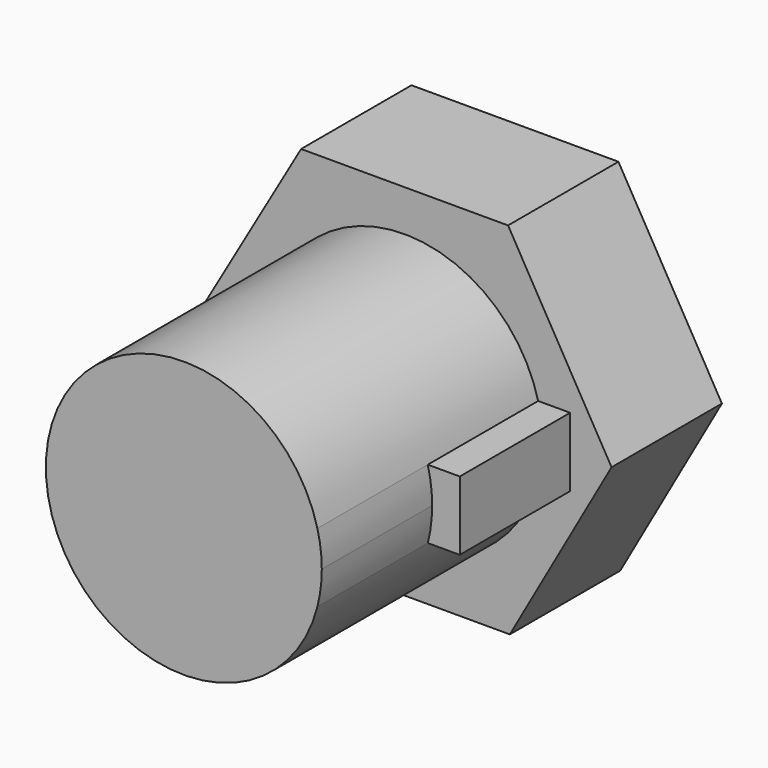
from build123d import *

# Parameters (mm, degrees)
F1_DEPTH = 30
F2_DEPTH = 10
F3_DEPTH = 20


with BuildPart() as f1:
    # F0 (on Front) → F1 (new body)
    with BuildSketch(Plane.XZ):
        with BuildLine():
            ThreePointArc((9.682458, -2.5), (9.920297, -1.260043), (10, 0))
            ThreePointArc((10, 0), (9.920297, 1.260043), (9.682458, 2.5))
            ThreePointArc((9.682458, 2.5), (-10, 0), (9.682458, -2.5))
        make_face()
    extrude(amount=F1_DEPTH)

    # F0 (on Front) → F2 (join)
    with BuildSketch(Plane.XZ):
        Polygon((7.5, 12.990381), (0, 12.990381), (-7.5, 12.990381), (-15, 0), (-7.369855, -12.914368), (0.128656, -13.063816), (7.628656, -13.063816), (15, 0), align=None)
        with BuildLine():
            ThreePointArc((9.682458, -2.5), (-10, 0), (9.682458, 2.5))
            Line((9.682458, 2.5), (12, 2.5))
            Line((12, 2.5), (12, 0))
            Line((12, 0), (12, -2.5))
            Line((12, -2.5), (9.682458, -2.5))
        make_face(mode=Mode.SUBTRACT)
    extrude(amount=F2_DEPTH)

    # F0 (on Front) → F3 (join)
    with BuildSketch(Plane.XZ):
        with BuildLine():
            ThreePointArc((9.682458, 2.5), (9.920297, 1.260043), (10, 0))
            ThreePointArc((10, 0), (9.920297, -1.260043), (9.682458, -2.5))
            Line((9.682458, -2.5), (12, -2.5))
            Line((12, -2.5), (12, 0))
            Line((12, 0), (12, 2.5))
            Line((12, 2.5), (9.682458, 2.5))
        make_face()
    extrude(amount=F3_DEPTH)


solid = f1.part
